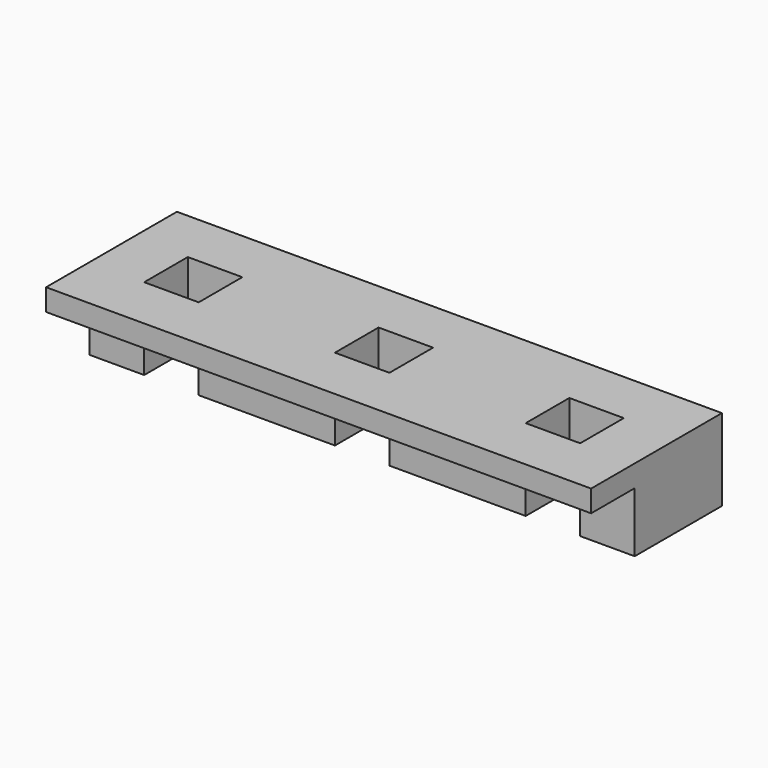
from build123d import *

# Parameters (mm, degrees)
SKETCH_W     = 100
SKETCH_H     = 30
SKETCH_W_2   = 10
SKETCH_H_2   = 10
PAD_DEPTH    = 15
SKETCH001_W  = 100
SKETCH001_H  = 10
POCKET_DEPTH = 11


with BuildPart() as part:
    # Sketch → Pad (new body)
    with BuildSketch(Plane.XY):
        with Locations((0, 13)):
            Rectangle(SKETCH_W, SKETCH_H)
        with Locations((35, 13)):
            Rectangle(SKETCH_W_2, SKETCH_H_2, mode=Mode.SUBTRACT)
        with Locations((-35, 13)):
            Rectangle(SKETCH_W_2, SKETCH_H_2, mode=Mode.SUBTRACT)
        with Locations((0, 13)):
            Rectangle(SKETCH_W_2, SKETCH_H_2, mode=Mode.SUBTRACT)
    extrude(amount=PAD_DEPTH)

    # Sketch001 (on Face17 of Pad) → Pocket (cut)
    with BuildSketch(Plane(origin=(0, 0, 0), x_dir=(1, 0, 0), z_dir=(0, 0, -1))):
        with Locations((0, -3)):
            Rectangle(SKETCH001_W, SKETCH001_H)
    extrude(amount=-POCKET_DEPTH, mode=Mode.SUBTRACT)


solid = part.part
